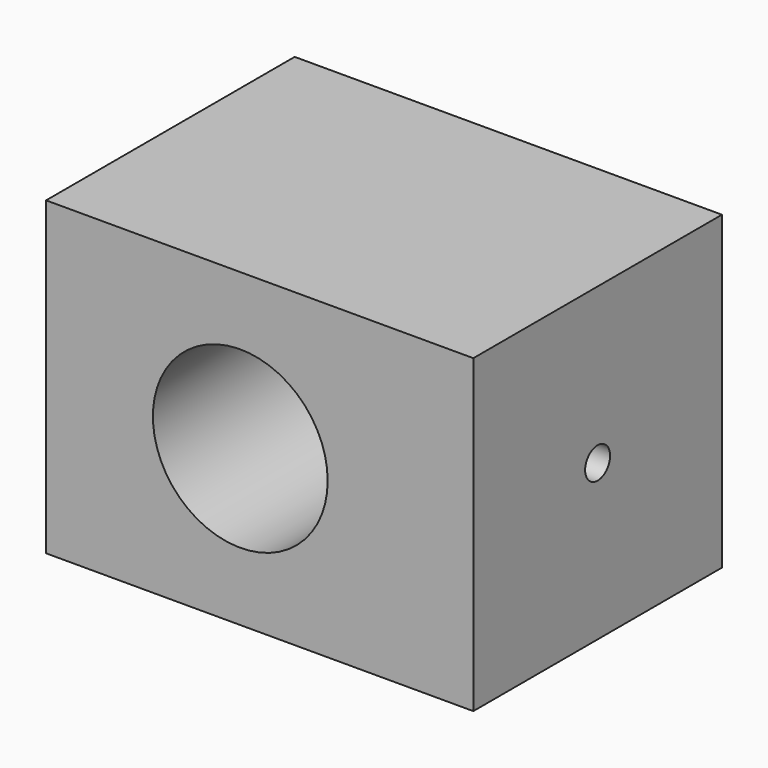
from build123d import *

# Parameters (mm, degrees)
F0_W     = 69.85
F0_H     = 50.8
F1_DEPTH = 50.8
F2_R     = 14.2875
F3_DEPTH = 50.801
F5_D     = 5.1054
F5_DEPTH = 25.4
F5_TIP   = 1.5338169022


with BuildPart() as f1:
    # F0 (on Front) → F1 (new body)
    with BuildSketch(Plane.XZ):
        with Locations((34.925, 25.4)):
            Rectangle(F0_W, F0_H)
    extrude(amount=F1_DEPTH)

    # F2 (on face) → F3 (cut, through all)
    with BuildSketch(Plane.XZ.offset(50.8)):
        with Locations((31.75, 25.4)):
            Circle(F2_R)
    extrude(amount=-F3_DEPTH, mode=Mode.SUBTRACT)

    # F5
    with Locations(Plane.YZ.offset(69.85)):
        with Locations((-25.4, 25.4)):
            Hole(F5_D / 2, depth=F5_DEPTH)
            with Locations((0, 0, -(F5_DEPTH + F5_TIP / 2))):  # 118° drill point
                Cone(0, F5_D / 2, F5_TIP, mode=Mode.SUBTRACT)


solid = f1.part
